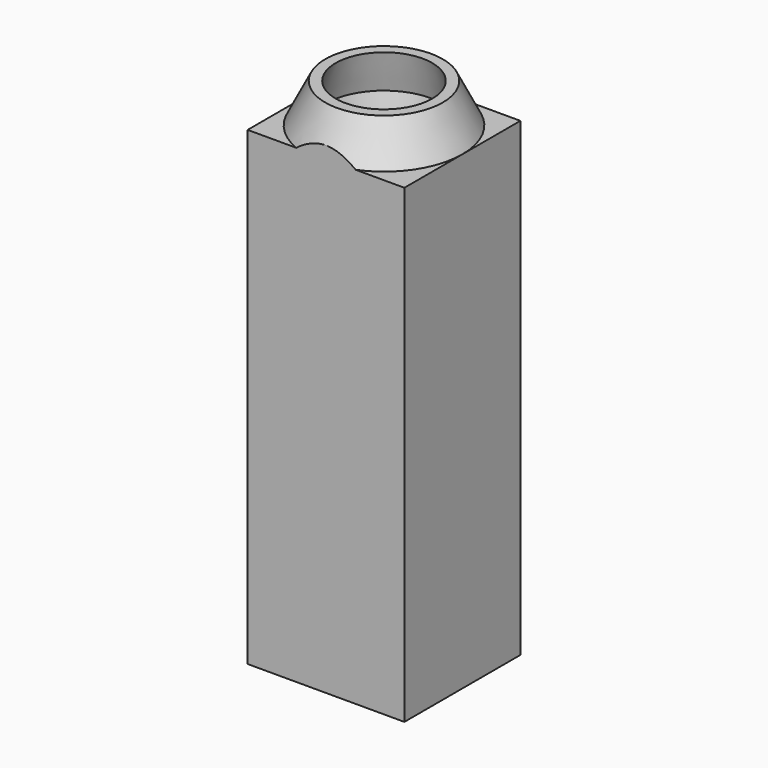
from build123d import *

# Parameters (mm, degrees)
F0_W      = 7.5
F0_H      = 20
F2_DEPTH  = 9.25
F4_DEPTH  = 40
F7_DEPTH  = 5
F9_W      = 17.5
F9_H      = 15
F10_DEPTH = 20


with BuildPart() as f1:
    # F0 (on Front) → F1 (revolve)
    with BuildSketch(Plane.XZ):
        Polygon((18.4253171254, 42.021107682), (23.7392311672, 27.021107682), (23.7392311672, 67.021107682), align=None)
    revolve(axis=Axis((16.2392311672, 0, 39.521107682), (0, 0, 1)))


with BuildPart() as f1b:
    # F0 (on Front) → F1, piece 2 (revolve)
    with BuildSketch(Plane.XZ):
        Polygon((22.399485205, 72.021107682), (23.7392311672, 67.021107682), (23.7392311672, 72.021107682), align=None)
        Polygon((23.7392311672, 72.021107682), (23.7392311672, 67.021107682), (26.2392311672, 67.021107682), align=None)
    revolve(axis=Axis((16.2392311672, 0, 39.521107682), (0, 0, 1)))

    # F6 (on face) → F7 (cut, through all)
    with BuildSketch(Plane(origin=(0, 0, 67.021107682), x_dir=(1, 0, 0), z_dir=(0, 0, -1))):
        with BuildLine():
            Line((12.4395601288, 9.25), (20.0389022056, 9.25))
            ThreePointArc((20.0389022056, 9.25), (16.2392311672, 10), (12.4395601288, 9.25))
        make_face()
        with BuildLine():
            ThreePointArc((12.4395601288, -9.25), (16.2392311672, -10), (20.0389022056, -9.25))
            Line((20.0389022056, -9.25), (12.4395601288, -9.25))
        make_face()
    extrude(amount=-F7_DEPTH, mode=Mode.SUBTRACT)


with BuildPart() as f2:
    # F0 (on Front) → F2 (new body, symmetric)
    with BuildSketch(Plane.XZ):
        Polygon((6.2392311672, 7.021107682), (8.7392311672, 7.021107682), (8.7392311672, 27.021107682), (8.7392311672, 67.021107682), (6.2392311672, 67.021107682), align=None)
        Polygon((23.7392311672, 27.021107682), (23.7392311672, 7.021107682), (26.2392311672, 7.021107682), (26.2392311672, 67.021107682), (23.7392311672, 67.021107682), align=None)
        with Locations((12.4892311672, 17.021107682)):
            Rectangle(F0_W, F0_H)
        with Locations((19.9892311672, 17.021107682)):
            Rectangle(F0_W, F0_H)
    extrude(amount=F2_DEPTH, both=True)


with BuildPart() as f4:
    # F3 (on face) → F4 (new body, through all)
    with BuildSketch(Plane.XY.offset(27.021107682)):
        with BuildLine():
            Line((23.7392311672, -9.25), (23.7392311672, 0))
            ThreePointArc((23.7392311672, 0), (16.2392311556, -7.5), (8.7392311672, 2.31e-08))
            Line((8.7392311672, 2.31e-08), (8.7392311672, -9.25))
            Line((8.7392311672, -9.25), (23.7392311672, -9.25))
        make_face()
        with BuildLine():
            Line((23.7392311672, -9.25), (23.7392311672, 0))
            ThreePointArc((23.7392311672, 0), (16.2392311556, -7.5), (8.7392311672, 2.31e-08))
            Line((8.7392311672, 2.31e-08), (8.7392311672, -9.25))
            Line((8.7392311672, -9.25), (23.7392311672, -9.25))
        make_face()
    extrude(amount=F4_DEPTH)


with BuildPart() as f4b:
    # F3 (on face) → F4, piece 2 (new body, through all)
    with BuildSketch(Plane.XY.offset(27.021107682)):
        with BuildLine():
            Line((23.7392311672, 0), (23.7392311672, 9.25))
            Line((23.7392311672, 9.25), (8.7392311672, 9.25))
            Line((8.7392311672, 9.25), (8.7392311672, 2.31e-08))
            ThreePointArc((8.7392311672, 2.31e-08), (16.2392311787, 7.5), (23.7392311672, 0))
        make_face()
        with BuildLine():
            Line((23.7392311672, 0), (23.7392311672, 9.25))
            Line((23.7392311672, 9.25), (8.7392311672, 9.25))
            Line((8.7392311672, 9.25), (8.7392311672, 2.31e-08))
            ThreePointArc((8.7392311672, 2.31e-08), (16.2392311787, 7.5), (23.7392311672, 0))
        make_face()
    extrude(amount=F4_DEPTH)


with BuildPart() as f4_1:
    add(f4.part)

    # F8: union F1b, F2, F1, F4b
    add(f1b.part)
    add(f2.part)
    add(f1.part)
    add(f4b.part)

    # F9 (on face) → F10 (cut)
    with BuildSketch(Plane(origin=(0, 0, 7.021107682), x_dir=(1, 0, 0), z_dir=(0, 0, -1))):
        with Locations((16.2392311672, 0)):
            Rectangle(F9_W, F9_H)
    extrude(amount=-F10_DEPTH, mode=Mode.SUBTRACT)


solid = f4_1.part
